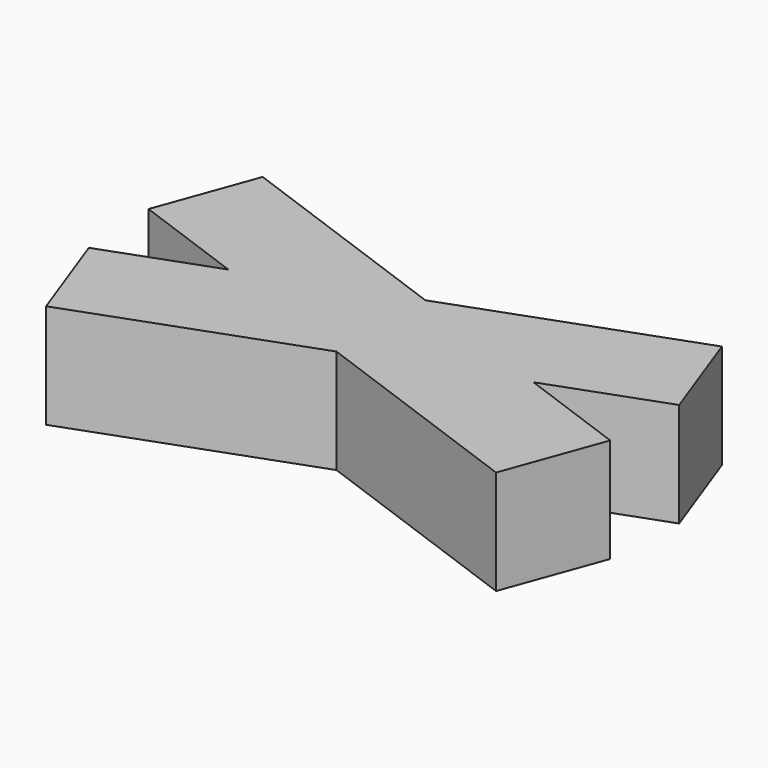
from build123d import *

# Parameters (mm, degrees)
BOX001_W               = 10
BOX001_H               = 2
BOX001_DEPTH           = 2
BOX001_PLACEMENT_ANGLE = 20
BOX_W                  = 10
BOX_H                  = 2
BOX_DEPTH              = 2
BOX_PLACEMENT_ANGLE    = 20


with BuildPart() as cub001:
    # Box001 → Box001 (new body)
    with BuildSketch(Plane.XY):
        with Locations((5, 1)):
            Rectangle(BOX001_W, BOX001_H)
    extrude(amount=BOX001_DEPTH)


with BuildPart() as cub001_1:
    # Box001 placement: moved
    add(cub001.part.moved(Location((0.21404, 1.829385, 0))).rotate(Axis((0.21404, 1.829385, 0), (0, 0, -1)), BOX001_PLACEMENT_ANGLE))


with BuildPart() as fusion:
    # Box → Box (new body)
    with BuildSketch(Plane.XY):
        with Locations((5, 1)):
            Rectangle(BOX_W, BOX_H)
    extrude(amount=BOX_DEPTH)


with BuildPart() as fusion_1:
    # Box placement: moved
    add(fusion.part.moved(Location((0.985577, -1.589486, 0))).rotate(Axis((0.985577, -1.589486, 0), (0, 0, 1)), BOX_PLACEMENT_ANGLE))

    # Fusion: union Cub001
    add(cub001_1.part)


with BuildPart() as fusion_2:
    # Fusion placement: moved
    add(fusion_1.part.moved(Location((-5, -1, 0))))


solid = fusion_2.part
